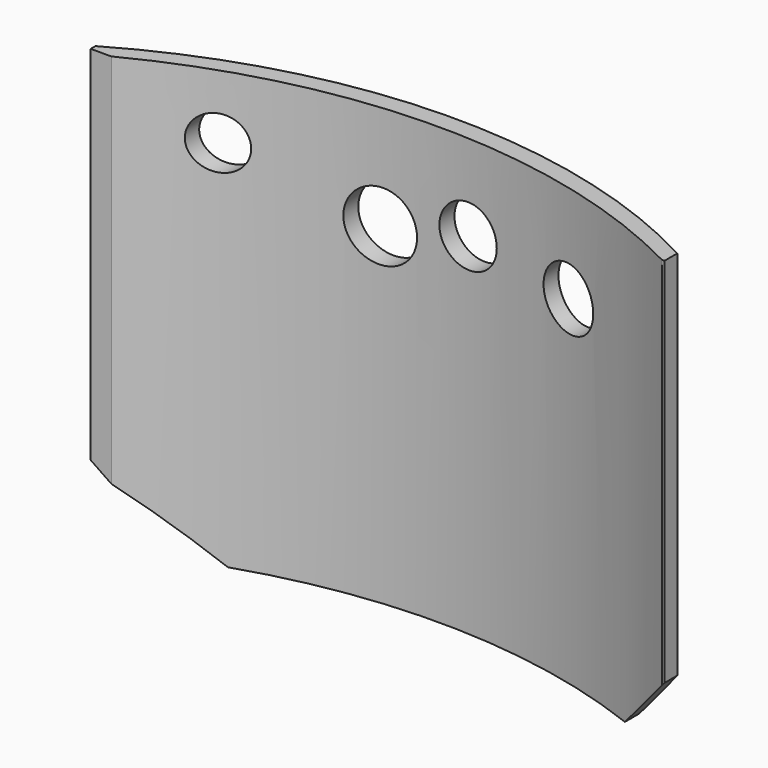
from build123d import *

# Parameters (mm, degrees)
SKETCH002_R   = 4.252865
SKETCH002_R_2 = 5.59623
SKETCH002_R_3 = 4.877243
SKETCH002_R_4 = 5.047412
PAD001_DEPTH  = 20
PAD_DEPTH     = 80
SKETCH001_W   = 100
SKETCH001_H   = 80
POCKET_DEPTH  = 14.001


with BuildPart() as pad001:
    # Sketch002 → Pad001 (new body)
    with BuildSketch(Plane.XZ):
        with Locations((-31.93054, 65.612114)):
            Circle(SKETCH002_R)
        with Locations((-9.299617, 59.023361)):
            Circle(SKETCH002_R_2)
        with Locations((4.772683, 62.008789)):
            Circle(SKETCH002_R_3)
        with Locations((23.342754, 60.151779)):
            Circle(SKETCH002_R_4)
    extrude(amount=-PAD001_DEPTH)


with BuildPart() as cut:
    # Sketch → Pad (new body)
    with BuildSketch(Plane.XY):
        with BuildLine():
            Line((45, 0), (50, 0))
            ThreePointArc((50, 0), (0, 14), (-50, 0))
            Line((-50, 0), (-45, 0))
            ThreePointArc((-45, 0), (0, 10.917116), (45, 0))
        make_face()
    extrude(amount=PAD_DEPTH)

    # Sketch001 → Pocket (cut, through all)
    with BuildSketch(Plane.XZ):
        with Locations((0, 40)):
            Rectangle(SKETCH001_W, SKETCH001_H)
        Polygon((-30.718987, 4.784545), (-48.360384, 16.897081), (-48.360384, 76.077912), (45.416021, 76.077912), (45.416021, 15.337389), (35.539104, 4.784545), align=None, mode=Mode.SUBTRACT)
    extrude(amount=-POCKET_DEPTH, mode=Mode.SUBTRACT)

    # Cut: cut Pad001
    add(pad001.part, mode=Mode.SUBTRACT)


solid = cut.part
